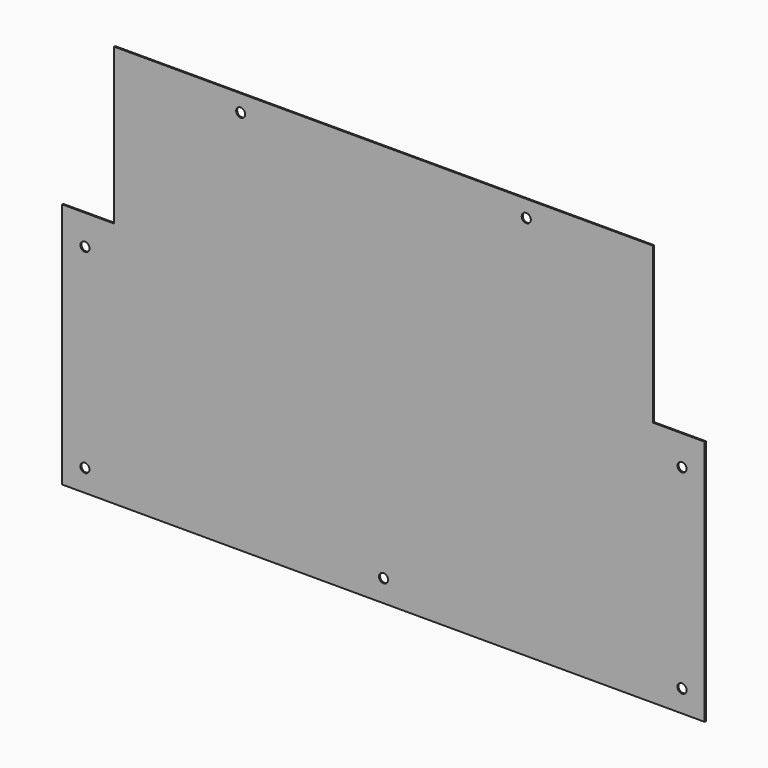
from build123d import *

# Parameters (mm, degrees)
F0_R     = 3.5
F1_DEPTH = 1


with BuildPart() as f1:
    # F0 (on Front) → F1 (new body)
    with BuildSketch(Plane.XZ):
        Polygon((-61.145082, 190), (-61.145082, 0), (433.854918, 0), (433.854918, 190), (393.854918, 190), (393.854918, 310), (186.354918, 310), (-21.145082, 310), (-21.145082, 190), align=None)
        with Locations((-43.645082, 17)):
            Circle(F0_R, mode=Mode.SUBTRACT)
        with Locations((186.354918, 17)):
            Circle(F0_R, mode=Mode.SUBTRACT)
        with Locations((416.354918, 17)):
            Circle(F0_R, mode=Mode.SUBTRACT)
        with Locations((-43.645082, 167)):
            Circle(F0_R, mode=Mode.SUBTRACT)
        with Locations((76.354918, 297)):
            Circle(F0_R, mode=Mode.SUBTRACT)
        with Locations((416.354918, 167)):
            Circle(F0_R, mode=Mode.SUBTRACT)
        with Locations((296.354918, 297)):
            Circle(F0_R, mode=Mode.SUBTRACT)
    extrude(amount=F1_DEPTH)


solid = f1.part
